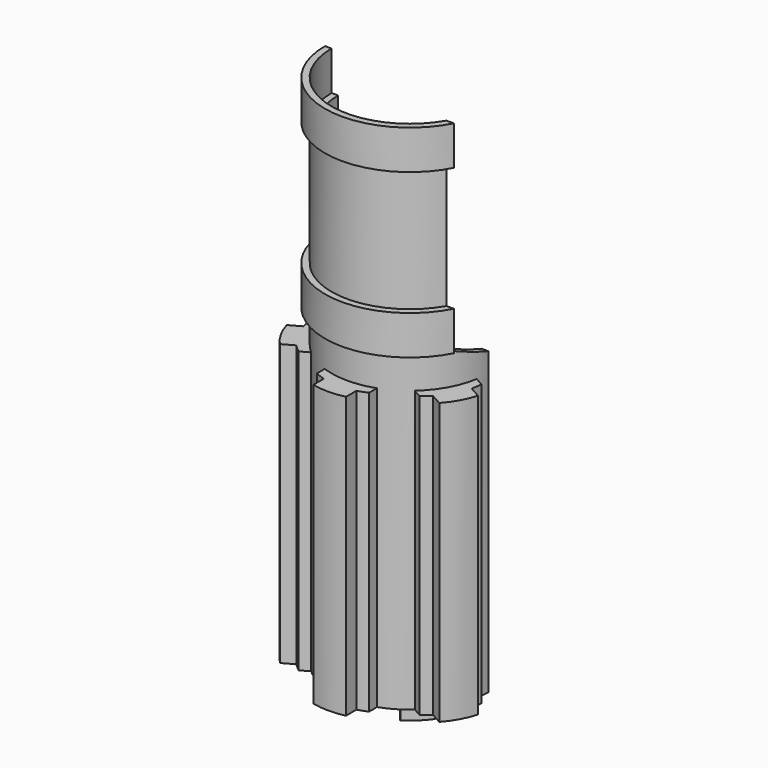
from build123d import *

# Parameters (mm, degrees)
F1_DEPTH  = 115.8875
F3_DEPTH  = 3.175
F4_DEPTH  = 68.2625
F6_DEPTH  = 9.525
F9_DEPTH  = 9.525
F11_DEPTH = 25.4
F13_DEPTH = 25.4


with BuildPart() as f1:
    # F0 (on Top) → F1 (new body)
    with BuildSketch(Plane.XY):
        with BuildLine():
            Line((-17.4625, 0), (-19.05, 0))
            ThreePointArc((-19.05, 0), (0, -19.05), (19.05, 0))
            Line((19.05, 0), (17.4625, 0))
            ThreePointArc((17.4625, 0), (0, -17.4625), (-17.4625, 0))
        make_face()
    extrude(amount=F1_DEPTH)

    # F8 (on offset) → F9 (join)
    with BuildSketch(Plane.XY.offset(76.2)):
        with BuildLine():
            Line((20.6375, 0), (19.05, 0))
            ThreePointArc((19.05, 0), (0, -19.05), (-19.05, 0))
            Line((-19.05, 0), (-20.6375, 0))
            ThreePointArc((-20.6375, 0), (0, -20.6375), (20.6375, 0))
        make_face()
    extrude(amount=F9_DEPTH)


with BuildPart() as f3:
    # F2 (on face) → F3 (new body)
    with BuildSketch(Plane(origin=(0, 0, 0), x_dir=(1, 0, 0), z_dir=(0, 0, -1))):
        with BuildLine():
            Line((-8.3839510943, 13.500053837), (-9.4155933276, 14.7066484469))
            ThreePointArc((-9.4155933276, 14.7066484469), (-12.0790322435, 12.6109431174), (-14.2875, 10.040231571))
            Line((-14.2875, 10.040231571), (-13.2558577667, 8.8336369612))
            ThreePointArc((-13.2558577667, 8.8336369612), (-11.0475587561, 11.4045246845), (-8.3839510943, 13.500053837))
        make_face()
    extrude(amount=F3_DEPTH)


with BuildPart() as f3b:
    # F2 (on face) → F3, piece 2 (new body)
    with BuildSketch(Plane(origin=(0, 0, 0), x_dir=(1, 0, 0), z_dir=(0, 0, -1))):
        with BuildLine():
            Line((13.2558577667, 8.8336369612), (14.2875, 10.040231571))
            ThreePointArc((14.2875, 10.040231571), (12.0790322435, 12.6109431174), (9.4155933276, 14.7066484469))
            Line((9.4155933276, 14.7066484469), (8.3839510943, 13.500053837))
            ThreePointArc((8.3839510943, 13.500053837), (11.0475587561, 11.4045246845), (13.2558577667, 8.8336369612))
        make_face()
    extrude(amount=F3_DEPTH)


with BuildPart() as f4:
    # F2 (on face) → F4 (new body)
    with BuildSketch(Plane(origin=(0, 0, 0), x_dir=(1, 0, 0), z_dir=(0, 0, -1))):
        with BuildLine():
            ThreePointArc((-6.35, 17.9605122421), (0, 19.05), (6.35, 17.9605122421))
            Line((6.35, 17.9605122421), (6.35, 20.3417622421))
            ThreePointArc((6.35, 20.3417622421), (5.1739390249, 20.8184627298), (3.96875, 21.215806644))
            Line((3.96875, 21.215806644), (3.96875, 24.390806644))
            ThreePointArc((3.96875, 24.390806644), (0, 24.8481217322), (-3.96875, 24.390806644))
            Line((-3.96875, 24.390806644), (-3.96875, 21.215806644))
            ThreePointArc((-3.96875, 21.215806644), (-5.1739390249, 20.8184627298), (-6.35, 20.3417622421))
            Line((-6.35, 20.3417622421), (-6.35, 17.9605122421))
        make_face()
    extrude(amount=-F4_DEPTH)


with BuildPart() as f4b:
    # F2 (on face) → F4, piece 2 (new body)
    with BuildSketch(Plane(origin=(0, 0, 0), x_dir=(1, 0, 0), z_dir=(0, 0, -1))):
        with BuildLine():
            Line((-20.8649246315, 4.331825393), (-18.7835533113, 3.175))
            ThreePointArc((-18.7835533113, 3.175), (-16.6509705616, 9.2546031441), (-12.6138178819, 14.2756470411))
            Line((-12.6138178819, 14.2756470411), (-14.6951892021, 15.4324724341))
            ThreePointArc((-14.6951892021, 15.4324724341), (-15.6831946291, 14.6361006314), (-16.6159876978, 13.7757170756))
            Line((-16.6159876978, 13.7757170756), (-19.3911494581, 15.3181509329))
            ThreePointArc((-19.3911494581, 15.3181509329), (-21.718915668, 12.0713651186), (-23.2472341015, 8.3802465323))
            Line((-23.2472341015, 8.3802465323), (-20.4720723412, 6.8378126749))
            ThreePointArc((-20.4720723412, 6.8378126749), (-20.7102552452, 5.5913650521), (-20.8649246315, 4.331825393))
        make_face()
    extrude(amount=-F4_DEPTH)


with BuildPart() as f4c:
    # F2 (on face) → F4, piece 3 (new body)
    with BuildSketch(Plane(origin=(0, 0, 0), x_dir=(1, 0, 0), z_dir=(0, 0, -1))):
        with BuildLine():
            ThreePointArc((12.6138178819, 14.2756470411), (16.6509705616, 9.2546031441), (18.7835533113, 3.175))
            Line((18.7835533113, 3.175), (20.8649246315, 4.331825393))
            ThreePointArc((20.8649246315, 4.331825393), (20.7102552452, 5.5913650521), (20.4720723412, 6.8378126749))
            Line((20.4720723412, 6.8378126749), (23.2472341015, 8.3802465323))
            ThreePointArc((23.2472341015, 8.3802465323), (21.718915668, 12.0713651186), (19.3911494581, 15.3181509329))
            Line((19.3911494581, 15.3181509329), (16.6159876978, 13.7757170756))
            ThreePointArc((16.6159876978, 13.7757170756), (15.6831946291, 14.6361006314), (14.6951892021, 15.4324724341))
            Line((14.6951892021, 15.4324724341), (12.6138178819, 14.2756470411))
        make_face()
    extrude(amount=-F4_DEPTH)


with BuildPart() as f6:
    # F5 (on face) → F6 (new body)
    with BuildSketch(Plane.XY.offset(115.8875)):
        with BuildLine():
            Line((20.6375, 0), (19.05, 0))
            ThreePointArc((19.05, 0), (0, -19.05), (-19.05, 0))
            Line((-19.05, 0), (-20.6375, 0))
            ThreePointArc((-20.6375, 0), (0, -20.6375), (20.6375, 0))
        make_face()
    extrude(amount=F6_DEPTH)


with BuildPart() as f11_tool:
    # F10 (on Right) → F11 (new body)
    with BuildSketch(Plane.YZ):
        Polygon((-9.525, 127.7427524328), (-9.525, 76.2), (0, 73.025), (0, 127.7427524328), align=None)
    extrude(amount=F11_DEPTH)


with BuildPart() as f1_1:
    add(f1.part)

    # F11: cut by f11_tool
    add(f11_tool.part, mode=Mode.SUBTRACT)


with BuildPart() as f6_1:
    add(f6.part)

    # F11: cut by f11_tool
    add(f11_tool.part, mode=Mode.SUBTRACT)


with BuildPart() as f13_tool:
    # F12 (on Right) → F13 (new body)
    with BuildSketch(Plane.YZ):
        with BuildLine():
            Line((0, 0), (0, 17.4625))
            ThreePointArc((0, 17.4625), (-5.0201157855, 13.8442052618), (-3.175, 7.9375))
            Line((-3.175, 7.9375), (-3.175, 0))
            Line((-3.175, 0), (0, 0))
        make_face()
        Polygon((1.9351648681, 17.4625), (0, 17.4625), (0, 0), (-3.175, 0), (-3.175, -0.7119281217), (1.9351648681, -0.7119281217), align=None)
    extrude(amount=-F13_DEPTH)


with BuildPart() as f1_2:
    add(f1_1.part)

    # F13: cut by f13_tool
    add(f13_tool.part, mode=Mode.SUBTRACT)


with BuildPart() as f4b_1:
    add(f4b.part)

    # F13: cut by f13_tool
    add(f13_tool.part, mode=Mode.SUBTRACT)


solid = Compound([f3.part, f3b.part, f4.part, f4c.part, f6_1.part, f1_2.part, f4b_1.part])
